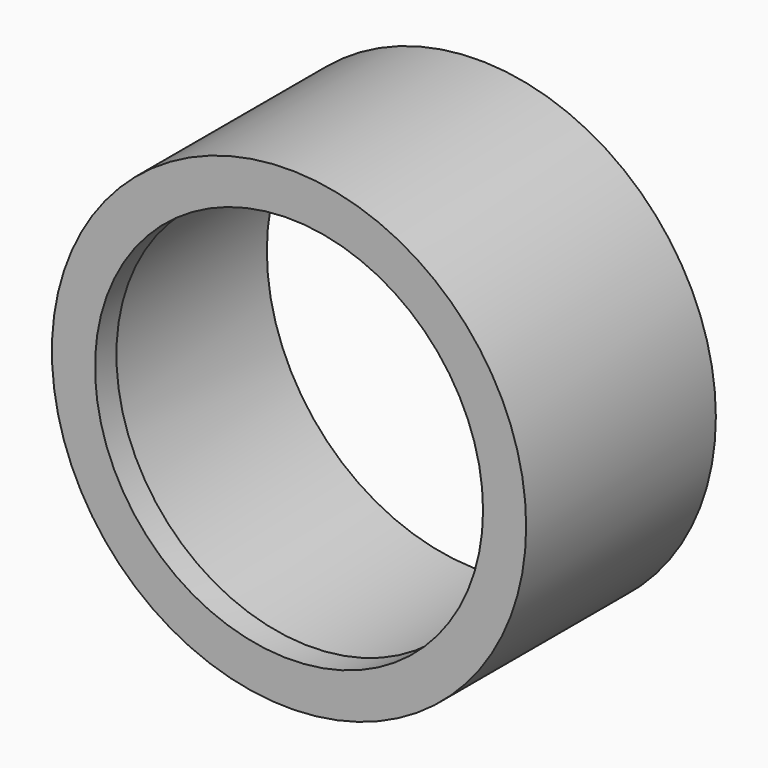
from build123d import *

# Parameters (mm, degrees)
F0_R     = 13.97
F0_R_2   = 11.43
F1_DEPTH = 13.97
F2_R     = 12.4841
F3_DEPTH = 12.3952


with BuildPart() as f1:
    # F0 (on Front) → F1 (new body)
    with BuildSketch(Plane.XZ):
        with Locations((-146.299869, 69.111124)):
            Circle(F0_R)
        with Locations((-146.299869, 69.111124)):
            Circle(F0_R_2, mode=Mode.SUBTRACT)
    extrude(amount=F1_DEPTH)

    # F2 (on face) → F3 (cut)
    with BuildSketch(Plane(origin=(0, 0, 0), x_dir=(-1, 0, 0), z_dir=(0, 1, 0))):
        with Locations((146.299869, 69.111124)):
            Circle(F2_R)
    extrude(amount=-F3_DEPTH, mode=Mode.SUBTRACT)


solid = f1.part
